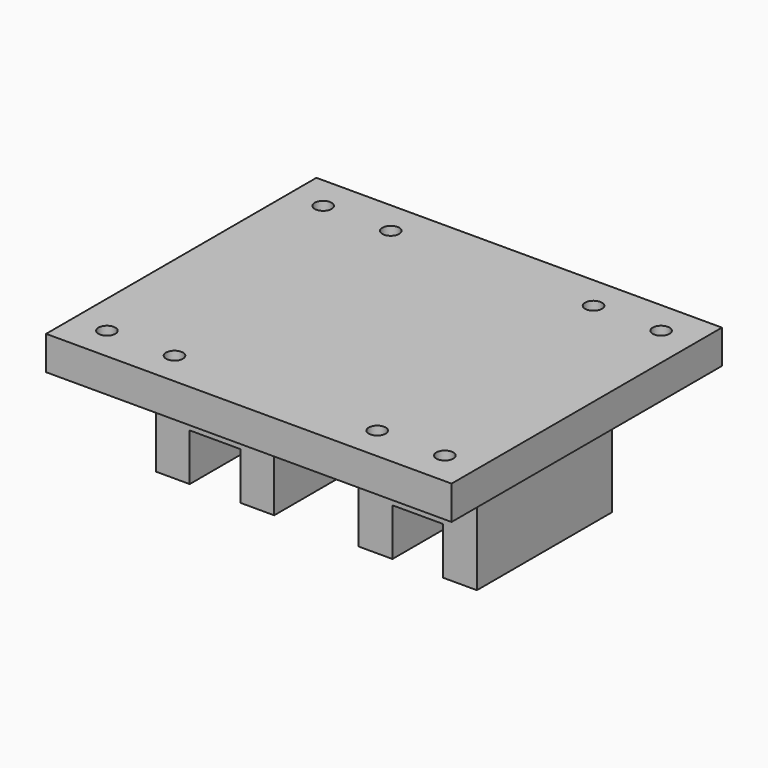
from build123d import *

# Parameters (mm, degrees)
SKETCH_W     = 120
SKETCH_H     = 100
SKETCH_R     = 2.5
PAD_DEPTH    = 10
SKETCH001_W  = 35
SKETCH001_H  = 50
PAD001_DEPTH = 18
SKETCH002_W  = 10
SKETCH002_H  = 50
PAD002_DEPTH = 14


with BuildPart() as part:
    # Sketch → Pad (new body)
    with BuildSketch(Plane.XY):
        Rectangle(SKETCH_W, SKETCH_H)
        with Locations((-50, 40)):
            Circle(SKETCH_R, mode=Mode.SUBTRACT)
        with Locations((-30, 40)):
            Circle(SKETCH_R, mode=Mode.SUBTRACT)
        with Locations((30, 40)):
            Circle(SKETCH_R, mode=Mode.SUBTRACT)
        with Locations((50, 40)):
            Circle(SKETCH_R, mode=Mode.SUBTRACT)
        with Locations((-50, -40)):
            Circle(SKETCH_R, mode=Mode.SUBTRACT)
        with Locations((-30, -40)):
            Circle(SKETCH_R, mode=Mode.SUBTRACT)
        with Locations((30, -40)):
            Circle(SKETCH_R, mode=Mode.SUBTRACT)
        with Locations((50, -40)):
            Circle(SKETCH_R, mode=Mode.SUBTRACT)
    extrude(amount=PAD_DEPTH)

    # Sketch001 (on Face13 of Pad) → Pad001 (join)
    with BuildSketch(Plane(origin=(0, 0, 0), x_dir=(1, 0, 0), z_dir=(0, 0, -1))):
        with Locations((-30, 0)):
            Rectangle(SKETCH001_W, SKETCH001_H)
        with Locations((30, 0)):
            Rectangle(SKETCH001_W, SKETCH001_H)
    extrude(amount=PAD001_DEPTH)

    # Sketch002 (on Face23 of Pad001) → Pad002 (join)
    with BuildSketch(Plane(origin=(0, 0, -18), x_dir=(1, 0, 0), z_dir=(0, 0, -1))):
        with Locations((-42.5, 0)):
            Rectangle(SKETCH002_W, SKETCH002_H)
        with Locations((-17.5, 0)):
            Rectangle(SKETCH002_W, SKETCH002_H)
        with Locations((17.5, 0)):
            Rectangle(SKETCH002_W, SKETCH002_H)
        with Locations((42.5, 0)):
            Rectangle(SKETCH002_W, SKETCH002_H)
    extrude(amount=PAD002_DEPTH)


solid = part.part
